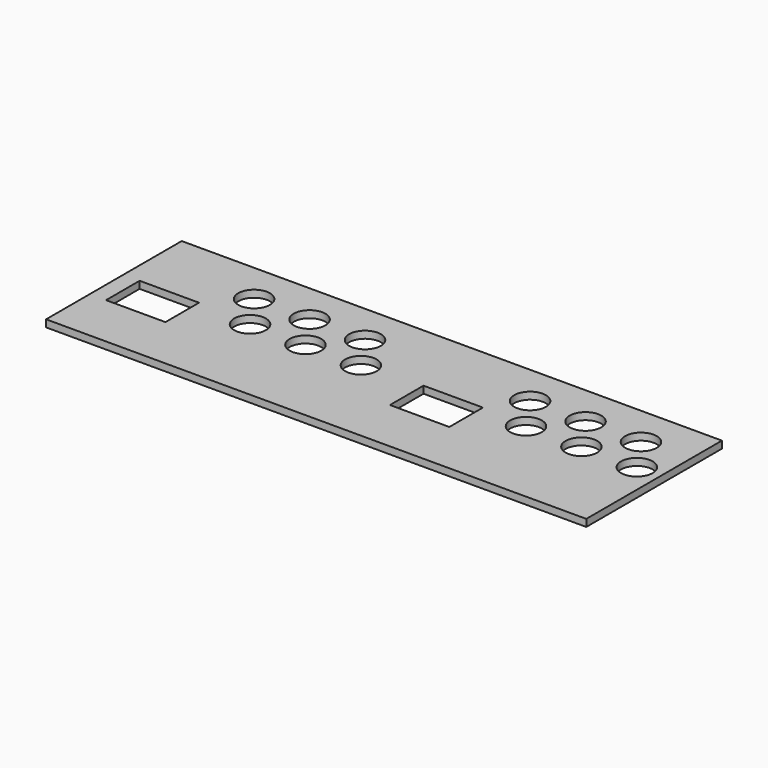
from build123d import *

# Parameters (mm, degrees)
F0_W     = 682
F0_H     = 214
F1_DEPTH = 9
F2_R     = 20
F2_W     = 75
F2_H     = 53
F3_DEPTH = 25


with BuildPart() as f1:
    # F0 (on Top) → F1 (new body)
    with BuildSketch(Plane.XY):
        Rectangle(F0_W, F0_H)
    extrude(amount=F1_DEPTH)

    # F2 (on face) → F3 (cut)
    with BuildSketch(Plane.XY.offset(9)):
        with Locations((-207.897894, 54.903371)):
            Circle(F2_R)
        with Locations((-137.897894, 54.903371)):
            Circle(F2_R)
        with Locations((-67.897894, 54.903371)):
            Circle(F2_R)
        with Locations((-282.900715, -11.644003)):
            Rectangle(F2_W, F2_H)
        with Locations((-177.3296, 10.241546)):
            Circle(F2_R)
        with Locations((-107.3296, 10.241546)):
            Circle(F2_R)
        with Locations((-37.3296, 10.241546)):
            Circle(F2_R)
        with Locations((140.477649, 54.903371)):
            Circle(F2_R)
        with Locations((210.477649, 54.903371)):
            Circle(F2_R)
        with Locations((280.477649, 54.903371)):
            Circle(F2_R)
        with Locations((171.045944, 10.241546)):
            Circle(F2_R)
        with Locations((241.045944, 10.241546)):
            Circle(F2_R)
        with Locations((311.045944, 10.241546)):
            Circle(F2_R)
        with Locations((75.500003, -11.644004)):
            Rectangle(F2_W, F2_H)
    extrude(amount=-F3_DEPTH, mode=Mode.SUBTRACT)


solid = f1.part
